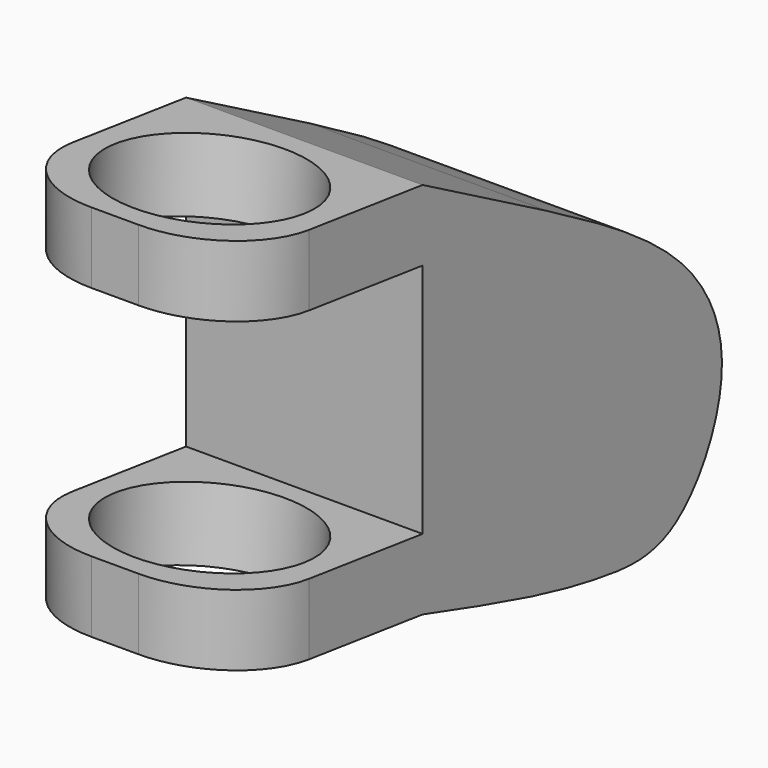
from build123d import *

# Parameters (mm, degrees)
F1_DEPTH = 50
F2_R     = 20
F3_R     = 20
F4_DEPTH = 25
F5_R     = 20


with BuildPart() as f1:
    # F0 (on Right) → F1 (new body)
    with BuildSketch(Plane.YZ):
        with BuildLine():
            Line((-14.7717447108, 37.161927035), (-47.8571756776, 55.4635424193))
            Line((-47.8571756776, 55.4635424193), (-47.8571756776, 40.4635424193))
            Line((-47.8571756776, 40.4635424193), (-47.8571756776, -9.4727996407))
            Line((-47.8571756776, -9.4727996407), (-47.8571756776, -24.4727996407))
            add(Edge.make_bspline(
                [(-14.7717447108, 37.161927035), (-0.6257863245, 29.1084223031), (24.3160576755, 14.9086567521), (35.4987360732, -12.6843183745), (19.9718061876, -39.3153511409), (-0.5993235275, -37.0634411457), (-19.3662246293, -33.1257327078), (-37.68948195, -27.5608195153), (-47.8571756776, -24.4727996407)],
                knots=[0, 0, 0, 0, 0.216383889, 0.3815233838, 0.5445591486, 0.681291285, 0.8231463725, 1, 1, 1, 1], degree=3))
        make_face()
        Polygon((-47.8571756776, 40.4635424193), (-47.8571756776, 55.4635424193), (-97.8571756776, 61.8597205765), (-97.8571756776, 46.8597205765), align=None)
        Polygon((-47.8571756776, -24.4727996407), (-47.8571756776, -9.4727996407), (-97.8571756776, -3.0766214835), (-97.8571756776, -18.0766214835), align=None)
    extrude(amount=F1_DEPTH)

    # F2 (on face) + F3 (on face) → F4 (cut)
    with BuildSketch(Plane(origin=(0, 6.2103099541, 48.547037007), x_dir=(1, 0, 0), z_dir=(0, 0.1268895383, 0.9919168539))):
        with Locations((25, -79.7118078194)):
            Circle(F2_R)
    with BuildSketch(Plane(origin=(0, -1.9628294665, -15.3437679362), x_dir=(1, 0, 0), z_dir=(0, 0.1268895383, 0.9919168539))):
        with Locations((25, -71.4720653568)):
            Circle(F3_R)
    extrude(amount=-F4_DEPTH, mode=Mode.SUBTRACT)

    # F5
    f5_edges = [f1.edges().sort_by_distance(p)[0] for p in [
        (0, -97.857176, 54.359721),
        (50, -97.857176, 54.359721),
        (0, -97.857176, -10.576621),
        (50, -97.857176, -10.576621),
    ]]
    fillet(f5_edges, radius=F5_R)


solid = f1.part
